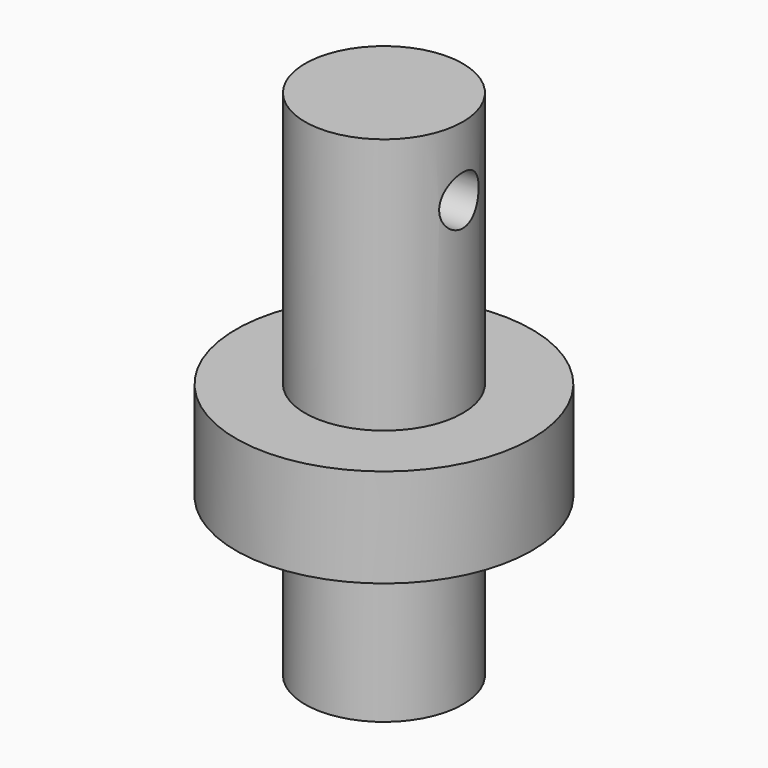
from build123d import *

# Parameters (mm, degrees)
F0_R     = 4
F1_DEPTH = 26
F3_R     = 7.5
F4_DEPTH = 5
F5_R     = 1.25
F6_DEPTH = 12.5


with BuildPart() as f1:
    # F0 (on Top) → F1 (new body)
    with BuildSketch(Plane.XY):
        Circle(F0_R)
    extrude(amount=F1_DEPTH)

    # F3 (on offset) → F4 (join)
    with BuildSketch(Plane(origin=(0, 0, 8), x_dir=(1, 0, 0), z_dir=(0, 0, -1))):
        Circle(F3_R)
    extrude(amount=-F4_DEPTH)

    # F5 (on Right) → F6 (cut, symmetric)
    with BuildSketch(Plane.YZ):
        with Locations((0, 22.5)):
            Circle(F5_R)
    extrude(amount=F6_DEPTH, both=True, mode=Mode.SUBTRACT)


solid = f1.part
